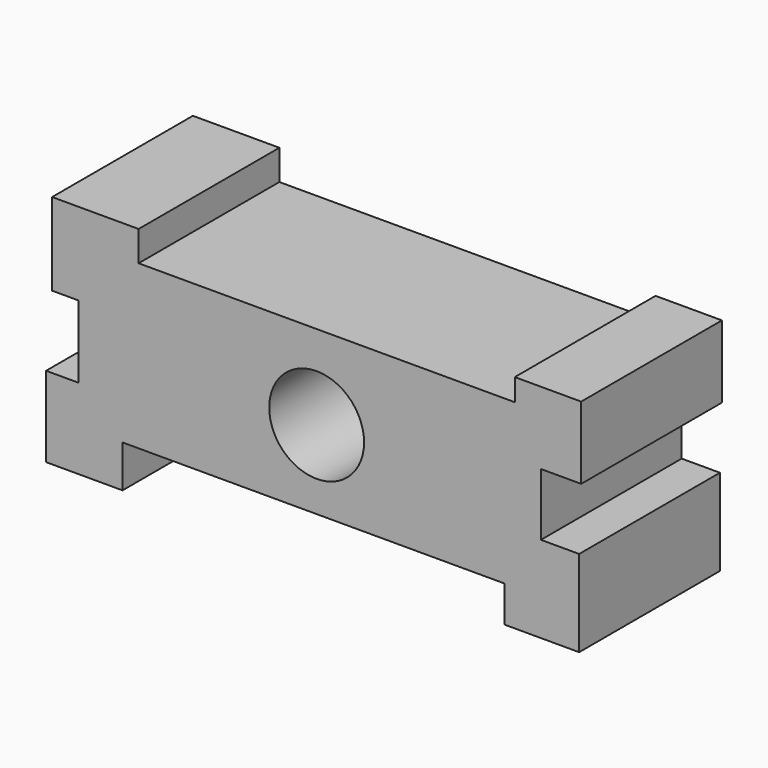
from build123d import *

# Parameters (mm, degrees)
F0_W     = 8.7125245482
F0_H     = 7.5508523732
F0_R     = 6.8494820219
F0_W_2   = 3.7754308432
F0_H_2   = 7.2604361922
F1_DEPTH = 25.4
F0_W_3   = 6.3891839236
F0_H_3   = 5.5179311894
F0_W_4   = 5.2275173366
F0_H_4   = 7.2604357265
F2_DEPTH = 25.4


with BuildPart() as f1:
    # F0 (on Front) → F1 (new body)
    with BuildSketch(Plane.XZ):
        with Locations((-30.0582041964, 19.7483850643)):
            Rectangle(F0_W, F0_H)
        Polygon((28.6061149091, 23.5238112509), (-25.7019419223, 23.5238112509), (-25.7019419223, 15.9729588777), (-34.4144664705, 15.9729588777), (-34.4144664705, 5.5179311894), (-28.0252825469, 5.5179311894), (-28.0252825469, 0), (27.1540284157, 0), (27.1540284157, 7.2604357265), (32.3815457523, 7.2604357265), (32.3815457523, 16.2633750588), (28.6061149091, 16.2633750588), align=None)
        with Locations((0, 11.3262794912)):
            Circle(F0_R, mode=Mode.SUBTRACT)
        with Locations((30.4938303307, 19.8935931548)):
            Rectangle(F0_W_2, F0_H_2)
    extrude(amount=F1_DEPTH)

    # F0 (on Front) → F2 (join)
    with BuildSketch(Plane.XZ):
        Polygon((-34.4144664705, 15.9729588777), (-34.4144664705, 23.5238112509), (-25.7019419223, 23.5238112509), (-25.7019419223, 27.8800725937), (-38.1898917258, 27.8800725937), (-38.1898917258, 15.9729588777), align=None)
        with Locations((-30.0582041964, 19.7483850643)):
            Rectangle(F0_W, F0_H)
        Polygon((28.6061149091, 23.5238112509), (-25.7019419223, 23.5238112509), (-25.7019419223, 15.9729588777), (-34.4144664705, 15.9729588777), (-34.4144664705, 5.5179311894), (-28.0252825469, 5.5179311894), (-28.0252825469, 0), (27.1540284157, 0), (27.1540284157, 7.2604357265), (32.3815457523, 7.2604357265), (32.3815457523, 16.2633750588), (28.6061149091, 16.2633750588), align=None)
        with Locations((0, 11.3262794912)):
            Circle(F0_R, mode=Mode.SUBTRACT)
        Polygon((28.6061149091, 26.718404144), (28.6061149091, 23.5238112509), (32.3815457523, 23.5238112509), (32.3815457523, 16.2633750588), (38.1898917258, 16.2633750588), (38.1898917258, 26.718404144), align=None)
        with Locations((30.4938303307, 19.8935931548)):
            Rectangle(F0_W_2, F0_H_2)
        with Locations((-31.2198745087, 2.7589655947)):
            Rectangle(F0_W_3, F0_H_3)
        Polygon((-34.4144664705, 0), (-34.4144664705, 5.5179311894), (-39.0611439943, 5.5179311894), (-39.0611439943, -6.0987658799), (-28.0252825469, -6.0987658799), (-28.0252825469, 0), align=None)
        Polygon((37.8994755447, 7.2604357265), (32.3815457523, 7.2604357265), (32.3815457523, 0), (27.1540284157, 0), (27.1540284157, -5.2275136113), (37.8994755447, -5.2275136113), align=None)
        with Locations((29.767787084, 3.6302178632)):
            Rectangle(F0_W_4, F0_H_4)
    extrude(amount=F2_DEPTH)


solid = f1.part
